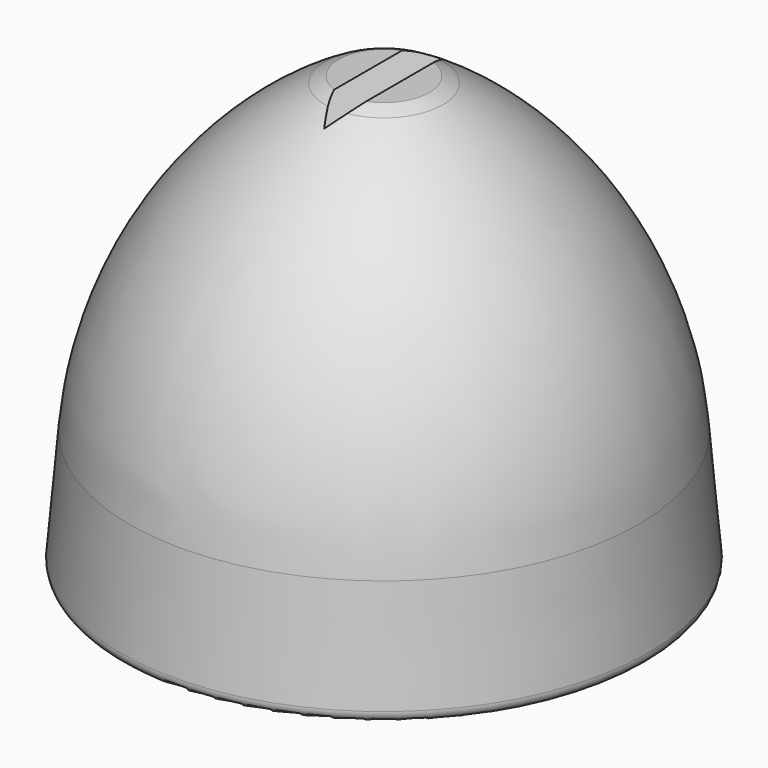
from build123d import *

# Parameters (mm, degrees)
F3_DEPTH = 12.5


with BuildPart() as f1:
    # F0 (on Front) → F1 (revolve)
    with BuildSketch(Plane.XZ):
        with BuildLine():
            ThreePointArc((5.075488, 34.832052), (16.538947, 23.409023), (21.638337, 8.050224))
            Line((21.638337, 8.050224), (22.117398, 2.574537))
            Line((22.117398, 2.574537), (23.55, 2.574537))
            Line((23.55, 2.574537), (23.55, -3.425463))
            Line((23.55, -3.425463), (24.562481, -3.425463))
            ThreePointArc((24.562481, -3.425463), (25.299759, -3.101054), (25.558676, -2.338308))
            Line((25.558676, -2.338308), (24.626922, 8.311692))
            ThreePointArc((24.626922, 8.311692), (18.798074, 25.452158), (5.699575, 37.950174))
            ThreePointArc((5.699575, 37.950174), (3.776831, 38.742911), (1.714722, 39.013247))
            Line((1.714722, 39.013247), (0, 39.013247))
            Line((0, 39.013247), (0, 36.013246))
            Line((0, 36.013246), (0.891724, 36.013246))
            ThreePointArc((0.891724, 36.013246), (3.065379, 35.712286), (5.075488, 34.832052))
        make_face()
    revolve(axis=Axis((0, 0, 37.513246), (0, 0, -1)))

    # F2 (on Front) → F3 (cut, symmetric)
    with BuildSketch(Plane.XZ):
        Polygon((-9.073464, 38.558992), (-1.545745, 38.558992), (0, 37.013247), (1.545745, 38.558992), (9.073464, 38.558992), (9.073464, 40.632625), (3.619377, 40.632625), (-3.619377, 40.632625), (-9.073464, 40.632625), align=None)
    extrude(amount=F3_DEPTH, both=True, mode=Mode.SUBTRACT)


solid = f1.part
